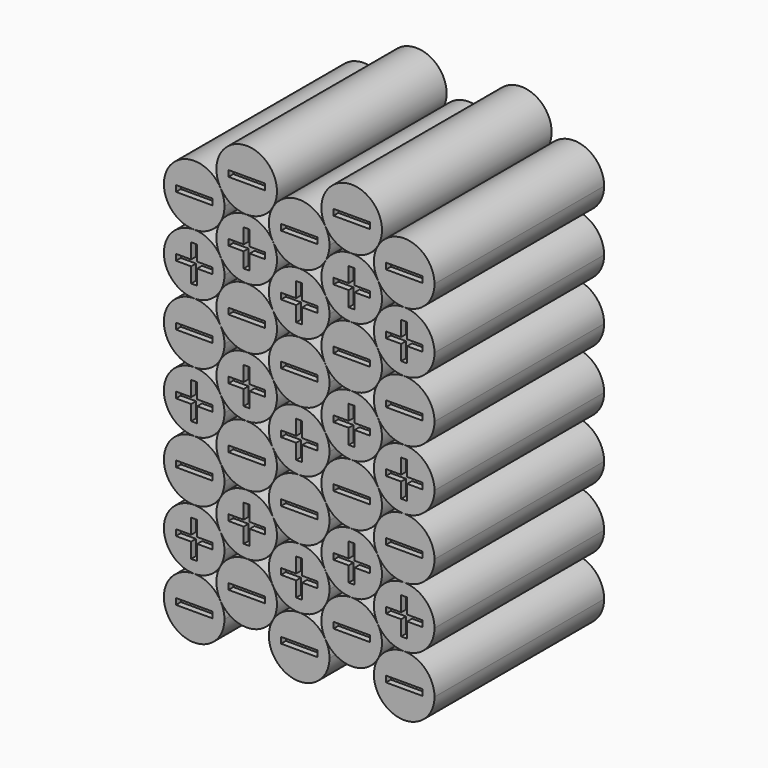
from build123d import *

# Parameters (mm, degrees)
F0_R     = 9.9995
F1_DEPTH = 70
F2_W     = 12
F2_H     = 2
F3_DEPTH = 2
F4_W     = 12
F4_H     = 2
F5_DEPTH = 2


with BuildPart() as f1:
    # F0 (on Front) → F1 (new body)
    with BuildSketch(Plane.XZ):
        with BuildLine():
            ThreePointArc((10, 20), (2.928932, 2.928932), (20, 10))
            ThreePointArc((20, 10), (17.071068, 17.071068), (10, 20))
        make_face()
        with BuildLine():
            ThreePointArc((20, 130), (2.928932, 137.071068), (10, 120))
            ThreePointArc((10, 120), (17.071068, 122.928932), (20, 130))
        make_face()
        with BuildLine():
            ThreePointArc((10, 120), (0, 110), (10, 100))
            ThreePointArc((10, 100), (17.071068, 102.928932), (20, 110))
            ThreePointArc((20, 110), (17.071068, 117.071068), (10, 120))
        make_face()
        with BuildLine():
            ThreePointArc((10, 100), (0, 90), (10, 80))
            ThreePointArc((10, 80), (17.071068, 82.928932), (20, 90))
            ThreePointArc((20, 90), (17.071068, 97.071068), (10, 100))
        make_face()
        with BuildLine():
            ThreePointArc((10, 80), (0, 70), (10, 60))
            ThreePointArc((10, 60), (17.071068, 62.928932), (20, 70))
            ThreePointArc((20, 70), (17.071068, 77.071068), (10, 80))
        make_face()
        with BuildLine():
            ThreePointArc((10, 60), (0, 50), (10, 40))
            ThreePointArc((10, 40), (17.071068, 42.928932), (20, 50))
            ThreePointArc((20, 50), (17.071068, 57.071068), (10, 60))
        make_face()
        with BuildLine():
            ThreePointArc((10, 40), (0, 30), (10, 20))
            ThreePointArc((10, 20), (17.071068, 22.928932), (20, 30))
            ThreePointArc((20, 30), (17.071068, 37.071068), (10, 40))
        make_face()
        with Locations((27.33, 20)):
            Circle(F0_R)
        with BuildLine():
            ThreePointArc((44.66, 20), (37.588932, 2.928932), (54.66, 10))
            ThreePointArc((54.66, 10), (51.731068, 17.071068), (44.66, 20))
        make_face()
        with BuildLine():
            ThreePointArc((54.66, 130), (37.588932, 137.071068), (44.66, 120))
            ThreePointArc((44.66, 120), (51.731068, 122.928932), (54.66, 130))
        make_face()
        with BuildLine():
            ThreePointArc((44.66, 120), (34.66, 110), (44.66, 100))
            ThreePointArc((44.66, 100), (51.731068, 102.928932), (54.66, 110))
            ThreePointArc((54.66, 110), (51.731068, 117.071068), (44.66, 120))
        make_face()
        with BuildLine():
            ThreePointArc((44.66, 100), (34.66, 90), (44.66, 80))
            ThreePointArc((44.66, 80), (51.731068, 82.928932), (54.66, 90))
            ThreePointArc((54.66, 90), (51.731068, 97.071068), (44.66, 100))
        make_face()
        with BuildLine():
            ThreePointArc((44.66, 80), (34.66, 70), (44.66, 60))
            ThreePointArc((44.66, 60), (51.731068, 62.928932), (54.66, 70))
            ThreePointArc((54.66, 70), (51.731068, 77.071068), (44.66, 80))
        make_face()
        with BuildLine():
            ThreePointArc((44.66, 60), (34.66, 50), (44.66, 40))
            ThreePointArc((44.66, 40), (51.731068, 42.928932), (54.66, 50))
            ThreePointArc((54.66, 50), (51.731068, 57.071068), (44.66, 60))
        make_face()
        with BuildLine():
            ThreePointArc((44.66, 40), (34.66, 30), (44.66, 20))
            ThreePointArc((44.66, 20), (51.731068, 22.928932), (54.66, 30))
            ThreePointArc((54.66, 30), (51.731068, 37.071068), (44.66, 40))
        make_face()
        with Locations((61.99, 20)):
            Circle(F0_R)
        with BuildLine():
            ThreePointArc((79.32, 20), (72.248932, 2.928932), (89.32, 10))
            ThreePointArc((89.32, 10), (86.391068, 17.071068), (79.32, 20))
        make_face()
        with BuildLine():
            ThreePointArc((89.32, 130), (72.248932, 137.071068), (79.32, 120))
            ThreePointArc((79.32, 120), (86.391068, 122.928932), (89.32, 130))
        make_face()
        with BuildLine():
            ThreePointArc((79.32, 120), (69.32, 110), (79.32, 100))
            ThreePointArc((79.32, 100), (86.391068, 102.928932), (89.32, 110))
            ThreePointArc((89.32, 110), (86.391068, 117.071068), (79.32, 120))
        make_face()
        with BuildLine():
            ThreePointArc((79.32, 100), (69.32, 90), (79.32, 80))
            ThreePointArc((79.32, 80), (86.391068, 82.928932), (89.32, 90))
            ThreePointArc((89.32, 90), (86.391068, 97.071068), (79.32, 100))
        make_face()
        with BuildLine():
            ThreePointArc((79.32, 80), (69.32, 70), (79.32, 60))
            ThreePointArc((79.32, 60), (86.391068, 62.928932), (89.32, 70))
            ThreePointArc((89.32, 70), (86.391068, 77.071068), (79.32, 80))
        make_face()
        with BuildLine():
            ThreePointArc((79.32, 60), (69.32, 50), (79.32, 40))
            ThreePointArc((79.32, 40), (86.391068, 42.928932), (89.32, 50))
            ThreePointArc((89.32, 50), (86.391068, 57.071068), (79.32, 60))
        make_face()
        with BuildLine():
            ThreePointArc((79.32, 40), (69.32, 30), (79.32, 20))
            ThreePointArc((79.32, 20), (86.391068, 22.928932), (89.32, 30))
            ThreePointArc((89.32, 30), (86.391068, 37.071068), (79.32, 40))
        make_face()
        with Locations((27.33, 40)):
            Circle(F0_R)
        with Locations((61.99, 40)):
            Circle(F0_R)
        with Locations((27.33, 60)):
            Circle(F0_R)
        with Locations((61.99, 60)):
            Circle(F0_R)
        with Locations((27.33, 80)):
            Circle(F0_R)
        with Locations((61.99, 80)):
            Circle(F0_R)
        with Locations((27.33, 100)):
            Circle(F0_R)
        with Locations((61.99, 100)):
            Circle(F0_R)
        with Locations((27.33, 120)):
            Circle(F0_R)
        with Locations((61.99, 120)):
            Circle(F0_R)
        with Locations((27.33, 140)):
            Circle(F0_R)
        with Locations((61.99, 140)):
            Circle(F0_R)
    extrude(amount=F1_DEPTH)

    # F2 (on face) → F3 (cut)
    with BuildSketch(Plane(origin=(0, 0, 0), x_dir=(-1, 0, 0), z_dir=(0, 1, 0))):
        Polygon((-78.32, 16), (-80.32, 16), (-80.32, 11), (-85.32, 11), (-85.32, 9), (-80.32, 9), (-80.32, 4), (-78.32, 4), (-78.32, 9), (-73.32, 9), (-73.32, 11), (-78.32, 11), align=None)
        Polygon((-60.99, 26), (-62.99, 26), (-62.99, 21), (-67.99, 21), (-67.99, 19), (-62.99, 19), (-62.99, 14), (-60.99, 14), (-60.99, 19), (-55.99, 19), (-55.99, 21), (-60.99, 21), align=None)
        Polygon((-9, 16), (-11, 16), (-11, 11), (-16, 11), (-16, 9), (-11, 9), (-11, 4), (-9, 4), (-9, 9), (-4, 9), (-4, 11), (-9, 11), align=None)
        Polygon((-26.33, 26), (-28.33, 26), (-28.33, 21), (-33.33, 21), (-33.33, 19), (-28.33, 19), (-28.33, 14), (-26.33, 14), (-26.33, 19), (-21.33, 19), (-21.33, 21), (-26.33, 21), align=None)
        Polygon((-43.66, 16), (-45.66, 16), (-45.66, 11), (-50.66, 11), (-50.66, 9), (-45.66, 9), (-45.66, 4), (-43.66, 4), (-43.66, 9), (-38.66, 9), (-38.66, 11), (-43.66, 11), align=None)
        with Locations((-79.32, 30)):
            Rectangle(F2_W, F2_H)
        with Locations((-61.99, 40)):
            Rectangle(F2_W, F2_H)
        with Locations((-44.66, 30)):
            Rectangle(F2_W, F2_H)
        with Locations((-27.33, 40)):
            Rectangle(F2_W, F2_H)
        with Locations((-10, 30)):
            Rectangle(F2_W, F2_H)
        Polygon((-78.32, 56), (-80.32, 56), (-80.32, 51), (-85.32, 51), (-85.32, 49), (-80.32, 49), (-80.32, 44), (-78.32, 44), (-78.32, 49), (-73.32, 49), (-73.32, 51), (-78.32, 51), align=None)
        Polygon((-60.99, 66), (-62.99, 66), (-62.99, 61), (-67.99, 61), (-67.99, 59), (-62.99, 59), (-62.99, 54), (-60.99, 54), (-60.99, 59), (-55.99, 59), (-55.99, 61), (-60.99, 61), align=None)
        Polygon((-9, 56), (-11, 56), (-11, 51), (-16, 51), (-16, 49), (-11, 49), (-11, 44), (-9, 44), (-9, 49), (-4, 49), (-4, 51), (-9, 51), align=None)
        Polygon((-26.33, 66), (-28.33, 66), (-28.33, 61), (-33.33, 61), (-33.33, 59), (-28.33, 59), (-28.33, 54), (-26.33, 54), (-26.33, 59), (-21.33, 59), (-21.33, 61), (-26.33, 61), align=None)
        Polygon((-43.66, 56), (-45.66, 56), (-45.66, 51), (-50.66, 51), (-50.66, 49), (-45.66, 49), (-45.66, 44), (-43.66, 44), (-43.66, 49), (-38.66, 49), (-38.66, 51), (-43.66, 51), align=None)
        with Locations((-79.32, 70)):
            Rectangle(F2_W, F2_H)
        with Locations((-61.99, 80)):
            Rectangle(F2_W, F2_H)
        with Locations((-44.66, 70)):
            Rectangle(F2_W, F2_H)
        with Locations((-27.33, 80)):
            Rectangle(F2_W, F2_H)
        with Locations((-10, 70)):
            Rectangle(F2_W, F2_H)
        Polygon((-78.32, 96), (-80.32, 96), (-80.32, 91), (-85.32, 91), (-85.32, 89), (-80.32, 89), (-80.32, 84), (-78.32, 84), (-78.32, 89), (-73.32, 89), (-73.32, 91), (-78.32, 91), align=None)
        Polygon((-60.99, 106), (-62.99, 106), (-62.99, 101), (-67.99, 101), (-67.99, 99), (-62.99, 99), (-62.99, 94), (-60.99, 94), (-60.99, 99), (-55.99, 99), (-55.99, 101), (-60.99, 101), align=None)
        Polygon((-9, 96), (-11, 96), (-11, 91), (-16, 91), (-16, 89), (-11, 89), (-11, 84), (-9, 84), (-9, 89), (-4, 89), (-4, 91), (-9, 91), align=None)
        Polygon((-26.33, 106), (-28.33, 106), (-28.33, 101), (-33.33, 101), (-33.33, 99), (-28.33, 99), (-28.33, 94), (-26.33, 94), (-26.33, 99), (-21.33, 99), (-21.33, 101), (-26.33, 101), align=None)
        Polygon((-43.66, 96), (-45.66, 96), (-45.66, 91), (-50.66, 91), (-50.66, 89), (-45.66, 89), (-45.66, 84), (-43.66, 84), (-43.66, 89), (-38.66, 89), (-38.66, 91), (-43.66, 91), align=None)
        with Locations((-79.32, 110)):
            Rectangle(F2_W, F2_H)
        with Locations((-61.99, 120)):
            Rectangle(F2_W, F2_H)
        with Locations((-44.66, 110)):
            Rectangle(F2_W, F2_H)
        with Locations((-27.33, 120)):
            Rectangle(F2_W, F2_H)
        with Locations((-10, 110)):
            Rectangle(F2_W, F2_H)
        Polygon((-78.32, 136), (-80.32, 136), (-80.32, 131), (-85.32, 131), (-85.32, 129), (-80.32, 129), (-80.32, 124), (-78.32, 124), (-78.32, 129), (-73.32, 129), (-73.32, 131), (-78.32, 131), align=None)
        Polygon((-60.99, 146), (-62.99, 146), (-62.99, 141), (-67.99, 141), (-67.99, 139), (-62.99, 139), (-62.99, 134), (-60.99, 134), (-60.99, 139), (-55.99, 139), (-55.99, 141), (-60.99, 141), align=None)
        Polygon((-9, 136), (-11, 136), (-11, 131), (-16, 131), (-16, 129), (-11, 129), (-11, 124), (-9, 124), (-9, 129), (-4, 129), (-4, 131), (-9, 131), align=None)
        Polygon((-26.33, 146), (-28.33, 146), (-28.33, 141), (-33.33, 141), (-33.33, 139), (-28.33, 139), (-28.33, 134), (-26.33, 134), (-26.33, 139), (-21.33, 139), (-21.33, 141), (-26.33, 141), align=None)
        Polygon((-43.66, 136), (-45.66, 136), (-45.66, 131), (-50.66, 131), (-50.66, 129), (-45.66, 129), (-45.66, 124), (-43.66, 124), (-43.66, 129), (-38.66, 129), (-38.66, 131), (-43.66, 131), align=None)
    extrude(amount=-F3_DEPTH, mode=Mode.SUBTRACT)

    # F4 (on face) → F5 (cut)
    with BuildSketch(Plane.XZ.offset(70)):
        Polygon((11, 36), (9, 36), (9, 31), (4, 31), (4, 29), (9, 29), (9, 24), (11, 24), (11, 29), (16, 29), (16, 31), (11, 31), align=None)
        Polygon((28.33, 46), (26.33, 46), (26.33, 41), (21.33, 41), (21.33, 39), (26.33, 39), (26.33, 34), (28.33, 34), (28.33, 39), (33.33, 39), (33.33, 41), (28.33, 41), align=None)
        Polygon((80.32, 36), (78.32, 36), (78.32, 31), (73.32, 31), (73.32, 29), (78.32, 29), (78.32, 24), (80.32, 24), (80.32, 29), (85.32, 29), (85.32, 31), (80.32, 31), align=None)
        Polygon((62.99, 46), (60.99, 46), (60.99, 41), (55.99, 41), (55.99, 39), (60.99, 39), (60.99, 34), (62.99, 34), (62.99, 39), (67.99, 39), (67.99, 41), (62.99, 41), align=None)
        Polygon((45.66, 36), (43.66, 36), (43.66, 31), (38.66, 31), (38.66, 29), (43.66, 29), (43.66, 24), (45.66, 24), (45.66, 29), (50.66, 29), (50.66, 31), (45.66, 31), align=None)
        with Locations((10, 50)):
            Rectangle(F4_W, F4_H)
        with Locations((27.33, 60)):
            Rectangle(F4_W, F4_H)
        with Locations((44.66, 50)):
            Rectangle(F4_W, F4_H)
        with Locations((61.99, 60)):
            Rectangle(F4_W, F4_H)
        with Locations((79.32, 50)):
            Rectangle(F4_W, F4_H)
        Polygon((11, 76), (9, 76), (9, 71), (4, 71), (4, 69), (9, 69), (9, 64), (11, 64), (11, 69), (16, 69), (16, 71), (11, 71), align=None)
        Polygon((28.33, 86), (26.33, 86), (26.33, 81), (21.33, 81), (21.33, 79), (26.33, 79), (26.33, 74), (28.33, 74), (28.33, 79), (33.33, 79), (33.33, 81), (28.33, 81), align=None)
        Polygon((80.32, 76), (78.32, 76), (78.32, 71), (73.32, 71), (73.32, 69), (78.32, 69), (78.32, 64), (80.32, 64), (80.32, 69), (85.32, 69), (85.32, 71), (80.32, 71), align=None)
        Polygon((62.99, 86), (60.99, 86), (60.99, 81), (55.99, 81), (55.99, 79), (60.99, 79), (60.99, 74), (62.99, 74), (62.99, 79), (67.99, 79), (67.99, 81), (62.99, 81), align=None)
        Polygon((45.66, 76), (43.66, 76), (43.66, 71), (38.66, 71), (38.66, 69), (43.66, 69), (43.66, 64), (45.66, 64), (45.66, 69), (50.66, 69), (50.66, 71), (45.66, 71), align=None)
        with Locations((10, 90)):
            Rectangle(F4_W, F4_H)
        with Locations((27.33, 100)):
            Rectangle(F4_W, F4_H)
        with Locations((44.66, 90)):
            Rectangle(F4_W, F4_H)
        with Locations((61.99, 100)):
            Rectangle(F4_W, F4_H)
        with Locations((79.32, 90)):
            Rectangle(F4_W, F4_H)
        Polygon((11, 116), (9, 116), (9, 111), (4, 111), (4, 109), (9, 109), (9, 104), (11, 104), (11, 109), (16, 109), (16, 111), (11, 111), align=None)
        Polygon((28.33, 126), (26.33, 126), (26.33, 121), (21.33, 121), (21.33, 119), (26.33, 119), (26.33, 114), (28.33, 114), (28.33, 119), (33.33, 119), (33.33, 121), (28.33, 121), align=None)
        Polygon((80.32, 116), (78.32, 116), (78.32, 111), (73.32, 111), (73.32, 109), (78.32, 109), (78.32, 104), (80.32, 104), (80.32, 109), (85.32, 109), (85.32, 111), (80.32, 111), align=None)
        Polygon((62.99, 126), (60.99, 126), (60.99, 121), (55.99, 121), (55.99, 119), (60.99, 119), (60.99, 114), (62.99, 114), (62.99, 119), (67.99, 119), (67.99, 121), (62.99, 121), align=None)
        Polygon((45.66, 116), (43.66, 116), (43.66, 111), (38.66, 111), (38.66, 109), (43.66, 109), (43.66, 104), (45.66, 104), (45.66, 109), (50.66, 109), (50.66, 111), (45.66, 111), align=None)
        with Locations((10, 130)):
            Rectangle(F4_W, F4_H)
        with Locations((27.33, 140)):
            Rectangle(F4_W, F4_H)
        with Locations((44.66, 130)):
            Rectangle(F4_W, F4_H)
        with Locations((61.99, 140)):
            Rectangle(F4_W, F4_H)
        with Locations((79.32, 130)):
            Rectangle(F4_W, F4_H)
        with Locations((10, 10)):
            Rectangle(F4_W, F4_H)
        with Locations((27.33, 20)):
            Rectangle(F4_W, F4_H)
        with Locations((44.66, 10)):
            Rectangle(F4_W, F4_H)
        with Locations((61.99, 20)):
            Rectangle(F4_W, F4_H)
        with Locations((79.32, 10)):
            Rectangle(F4_W, F4_H)
    extrude(amount=-F5_DEPTH, mode=Mode.SUBTRACT)


solid = f1.part
